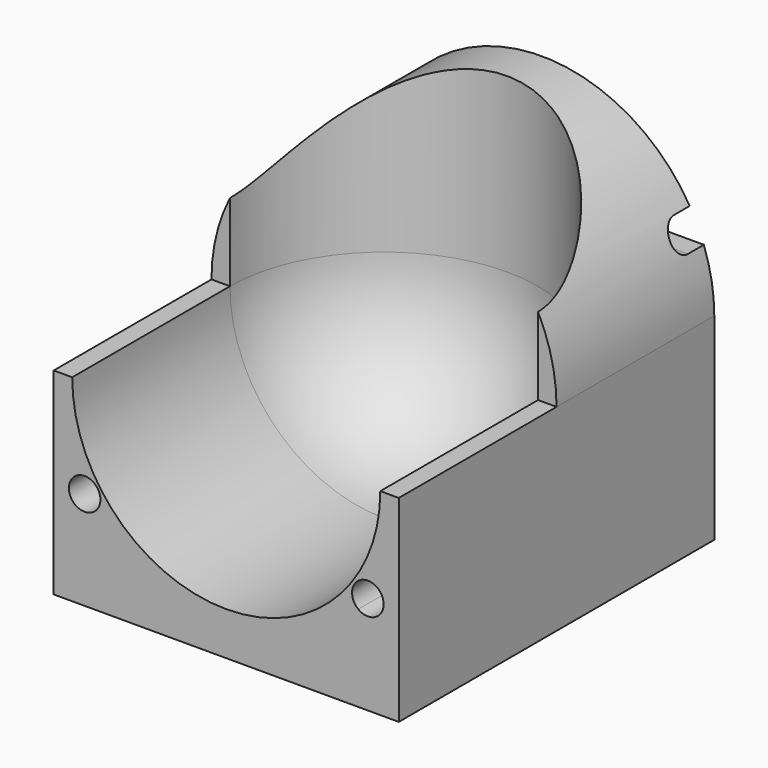
from build123d import *

# Parameters (mm, degrees)
F1_DEPTH  = 80
F3_DEPTH  = 40
F5_R      = 31.25
F6_DEPTH  = 50.2
F7_ANGLE  = 90
F9_DEPTH  = 4
F10_DEPTH = 4
F12_DEPTH = 67.8795645455


with BuildPart() as f1:
    # F0 (on Front) → F1 (new body)
    with BuildSketch(Plane.XZ):
        with BuildLine():
            ThreePointArc((30.4294233557, -17.2930678088), (33.8380689272, -8.9434384481), (35, 0))
            ThreePointArc((35, 0), (0, 35), (-35, 0))
            ThreePointArc((-35, 0), (-33.8380689272, -8.9434384481), (-30.4294233557, -17.2930678088))
            ThreePointArc((-30.4294233557, -17.2930678088), (-27.1770371159, -17.1981120299), (-25.5228132327, -20))
            ThreePointArc((-25.5228132327, -20), (-25.8531904298, -21.4160737865), (-26.7761038382, -22.5397485178))
            ThreePointArc((-26.7761038382, -22.5397485178), (0, -35), (26.7761038382, -22.5397485178))
            ThreePointArc((26.7761038382, -22.5397485178), (26.0967274514, -18.1714285714), (30.4294233557, -17.2930678088))
        make_face()
        with BuildLine():
            Line((35, -40), (35, 0))
            ThreePointArc((35, 0), (33.8380689272, -8.9434384481), (30.4294233557, -17.2930678088))
            ThreePointArc((30.4294233557, -17.2930678088), (31.5247012028, -18.4542238832), (31.9228132327, -20))
            ThreePointArc((31.9228132327, -20), (30.1388870192, -22.8696228029), (26.7761038382, -22.5397485178))
            ThreePointArc((26.7761038382, -22.5397485178), (0, -35), (-26.7761038382, -22.5397485178))
            ThreePointArc((-26.7761038382, -22.5397485178), (-31.348899014, -21.8285714286), (-30.4294233557, -17.2930678088))
            ThreePointArc((-30.4294233557, -17.2930678088), (-33.8380689272, -8.9434384481), (-35, 0))
            Line((-35, 0), (-35, -40))
            Line((-35, -40), (35, -40))
        make_face()
    extrude(amount=F1_DEPTH)

    # F2 (on face) → F3 (cut)
    with BuildSketch(Plane.XZ.offset(80)):
        with BuildLine():
            ThreePointArc((-31.25, 0), (0, -31.25), (31.25, 0))
            ThreePointArc((31.25, 0), (0, 31.25), (-31.25, 0))
        make_face()
        with BuildLine():
            ThreePointArc((-31.25, 0), (0, 31.25), (31.25, 0))
            Line((31.25, 0), (35, 0))
            ThreePointArc((35, 0), (0, 35), (-35, 0))
            Line((-35, 0), (-31.25, 0))
        make_face()
    extrude(amount=-F3_DEPTH, mode=Mode.SUBTRACT)

    # F5 (on offset) → F6 (cut)
    with BuildSketch(Plane.XY):
        with Locations((0, -40)):
            Circle(F5_R)
    extrude(amount=F6_DEPTH, mode=Mode.SUBTRACT)

    # F6_face (on face) → F7 (revolve, cut)
    with BuildSketch(Plane(origin=(0, -26.7370880757, 0), x_dir=(1, 0, 0), z_dir=(0, 0, 1))):
        with BuildLine():
            Line((-31.25, -13.2629119243), (31.25, -13.2629119243))
            ThreePointArc((31.25, -13.2629119243), (0, 17.9870880757), (-31.25, -13.2629119243))
        make_face()
    revolve(axis=Axis((0, -40, 0), (-1, 0, 0)), revolution_arc=F7_ANGLE, mode=Mode.SUBTRACT)

    # F8 (on face) → F9 (cut)
    with BuildSketch(Plane(origin=(0, 0, 0), x_dir=(-1, 0, 0), z_dir=(0, 1, 0))):
        Polygon((-32.8785644455, 18), (-32.8785644455, 12), (0, 12), (32.8785644455, 12), (32.8785644455, 18), align=None)
    extrude(amount=-F9_DEPTH, mode=Mode.SUBTRACT)

    # F8 (on face) → F10 (join)
    with BuildSketch(Plane(origin=(0, 0, 0), x_dir=(-1, 0, 0), z_dir=(0, 1, 0))):
        Polygon((-32.8785644455, 18), (-32.8785644455, 12), (0, 12), (32.8785644455, 12), (32.8785644455, 18), align=None)
    extrude(amount=-F10_DEPTH)

    # F11 (on face) → F12 (cut, through all)
    with BuildSketch(Plane.YZ.offset(32.8785644455)):
        with BuildLine():
            ThreePointArc((-4, 18), (-7, 15), (-4, 12))
            Line((-4, 12), (0, 12))
            Line((0, 12), (0, 18))
            Line((0, 18), (-4, 18))
        make_face()
    extrude(amount=-F12_DEPTH, mode=Mode.SUBTRACT)


solid = f1.part
